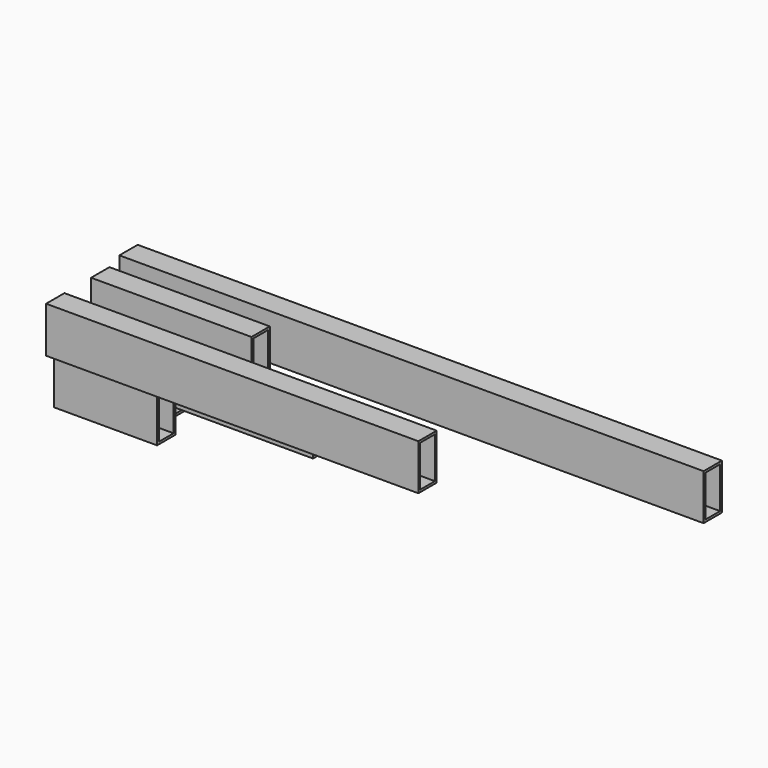
from build123d import *

# Parameters (mm, degrees)
F0_W      = 25.4
F0_H      = 50.8
F0_W_2    = 20.32
F0_H_2    = 45.72
F1_DEPTH  = 177.8
F2_W      = 25.4
F2_H      = 50.8
F2_W_2    = 20.32
F2_H_2    = 45.72
F3_DEPTH  = 412.75
F4_W      = 25.4
F4_H      = 50.8
F4_W_2    = 20.32
F4_H_2    = 45.72
F5_DEPTH  = 114.3
F6_W      = 25.4
F6_H      = 50.8
F6_W_2    = 20.32
F6_H_2    = 45.72
F7_DEPTH  = 234.95
F8_W      = 25.4
F8_H      = 50.8
F8_W_2    = 20.32
F8_H_2    = 45.72
F9_DEPTH  = 647.7
F11_DEPTH = 63.5


with BuildPart() as f1:
    # F0 (on Right) → F1 (new body)
    with BuildSketch(Plane.YZ):
        with Locations((12.7, 25.4)):
            Rectangle(F0_W, F0_H)
        with Locations((12.7, 25.4)):
            Rectangle(F0_W_2, F0_H_2, mode=Mode.SUBTRACT)
    extrude(amount=F1_DEPTH)


with BuildPart() as f3:
    # F2 (on Right) → F3 (new body)
    with BuildSketch(Plane.YZ):
        with Locations((-49.67835, 25.4)):
            Rectangle(F2_W, F2_H)
        with Locations((-49.67835, 25.4)):
            Rectangle(F2_W_2, F2_H_2, mode=Mode.SUBTRACT)
    extrude(amount=F3_DEPTH)


with BuildPart() as f5:
    # F4 (on Right) → F5 (new body)
    with BuildSketch(Plane.YZ):
        with Locations((-38.736289, -29.374658)):
            Rectangle(F4_W, F4_H)
        with Locations((-38.736289, -29.374658)):
            Rectangle(F4_W_2, F4_H_2, mode=Mode.SUBTRACT)
    extrude(amount=F5_DEPTH)


with BuildPart() as f7:
    # F6 (on Right) → F7 (new body)
    with BuildSketch(Plane.YZ):
        with Locations((26.558986, -29.516207)):
            Rectangle(F6_W, F6_H)
        with Locations((26.558986, -29.516207)):
            Rectangle(F6_W_2, F6_H_2, mode=Mode.SUBTRACT)
    extrude(amount=F7_DEPTH)


with BuildPart() as f9:
    # F8 (on Right) → F9 (new body)
    with BuildSketch(Plane.YZ):
        with Locations((51.855821, 31.308261)):
            Rectangle(F8_W, F8_H)
        with Locations((51.855821, 31.308261)):
            Rectangle(F8_W_2, F8_H_2, mode=Mode.SUBTRACT)
    extrude(amount=F9_DEPTH)


with BuildPart() as f11:
    # F10 (on Right) → F11 (new body)
    with BuildSketch(Plane.YZ):
        Polygon((66.285934, -76.544711), (35.805934, -76.544711), (35.805934, -79.084711), (99.305934, -79.084711), (99.305934, -76.544711), (68.825934, -76.544711), (68.825934, -15.584711), (66.285934, -15.584711), align=None)
    extrude(amount=F11_DEPTH)


solid = Compound([f1.part, f3.part, f5.part, f7.part, f9.part, f11.part])
